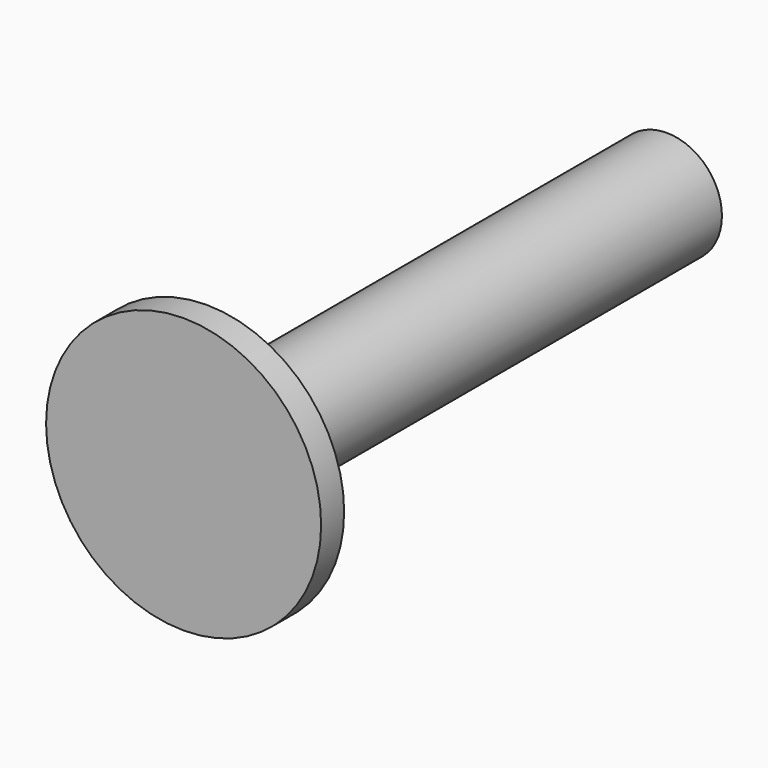
from build123d import *

# Parameters (mm, degrees)
F0_R     = 12.174122
F1_DEPTH = 127
F2_R     = 30.365581
F2_R_2   = 12.174122
F3_DEPTH = 6.35


with BuildPart() as f1:
    # F0 (on Front) → F1 (new body)
    with BuildSketch(Plane.XZ):
        Circle(F0_R)
    extrude(amount=F1_DEPTH)

    # F2 (on face) → F3 (join)
    with BuildSketch(Plane.XZ.offset(127)):
        Circle(F2_R)
        Circle(F2_R_2)
    extrude(amount=F3_DEPTH)


solid = f1.part
